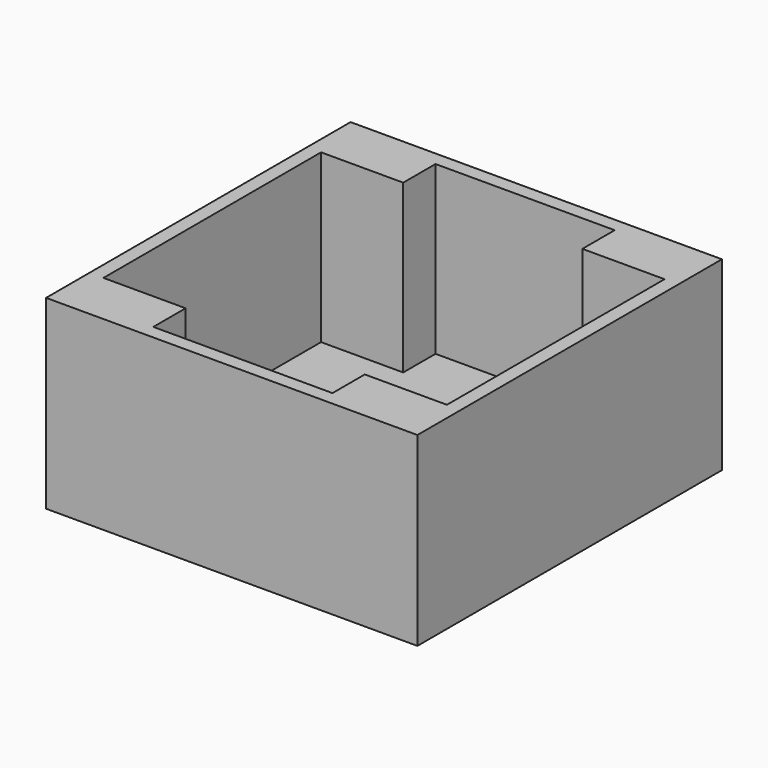
from build123d import *

# Parameters (mm, degrees)
F0_W     = 80
F0_H     = 82
F1_DEPTH = 4
F2_W     = 80
F2_H     = 82
F3_DEPTH = 36


with BuildPart() as f1:
    # F0 (on Top) → F1 (new body)
    with BuildSketch(Plane.XY):
        Rectangle(F0_W, F0_H)
    extrude(amount=F1_DEPTH)

    # F2 (on face) → F3 (join)
    with BuildSketch(Plane.XY.offset(4)):
        Rectangle(F2_W, F2_H)
        Polygon((-37, 29.3), (-19.3, 29.3), (-19.3, 38), (19.3, 38), (19.3, 29.3), (37, 29.3), (37, -29.3), (19.3, -29.3), (19.3, -38), (-19.3, -38), (-19.3, -29.3), (-37, -29.3), align=None, mode=Mode.SUBTRACT)
    extrude(amount=F3_DEPTH)


solid = f1.part
